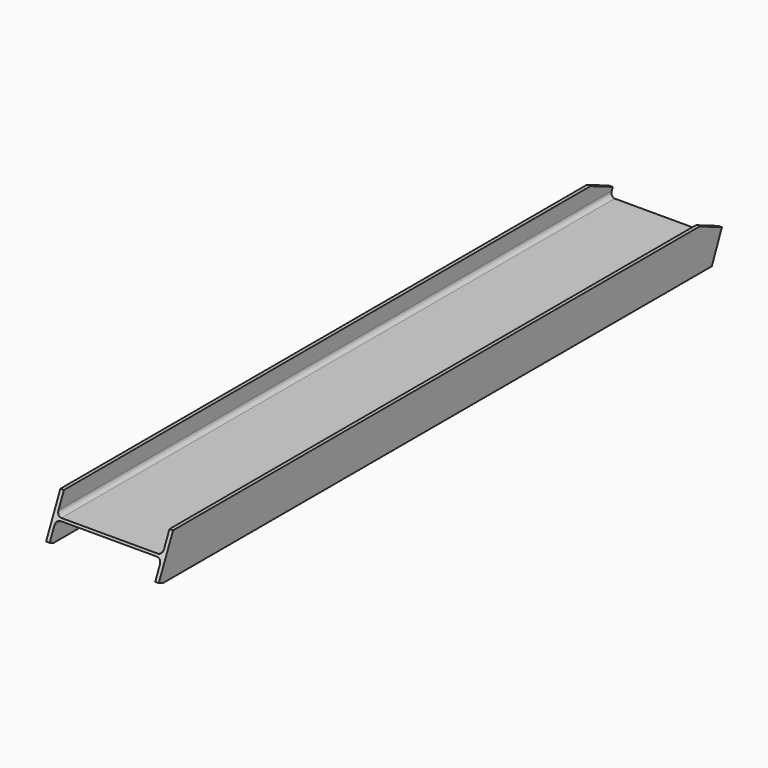
from build123d import *

# Parameters (mm, degrees)
F1_DEPTH = 4000
F3_DEPTH = 600.001


with BuildPart() as f1:
    # F0 (on Front) → F1 (new body)
    with BuildSketch(Plane.XZ):
        with BuildLine():
            Line((257, 6), (0, 6))
            Line((0, 6), (-257, 6))
            ThreePointArc((-257, 6), (-273.970563, 13.029437), (-281, 30))
            Line((-281, 30), (-281, 110))
            Line((-281, 110), (-300, 110))
            Line((-300, 110), (-300, 0))
            Line((-300, 0), (-300, -110))
            Line((-300, -110), (-281, -110))
            Line((-281, -110), (-281, -30))
            ThreePointArc((-281, -30), (-273.970563, -13.029437), (-257, -6))
            Line((-257, -6), (0, -6))
            Line((0, -6), (257, -6))
            ThreePointArc((257, -6), (273.970563, -13.029437), (281, -30))
            Line((281, -30), (281, -110))
            Line((281, -110), (300, -110))
            Line((300, -110), (300, 0))
            Line((300, 0), (300, 110))
            Line((300, 110), (281, 110))
            Line((281, 110), (281, 30))
            ThreePointArc((281, 30), (273.970563, 13.029437), (257, 6))
        make_face()
    extrude(amount=F1_DEPTH)

    # F2 (on face) → F3 (cut, through all)
    with BuildSketch(Plane.YZ.offset(300)):
        Polygon((-4000, -110), (-3972, -110), (-4000, -99), align=None)
        Polygon((-4000, 110), (-4000, -99), (-3905, 110), align=None)
        Polygon((-252, 46), (-319, -110), (0, -110), (0, 110), (-401.014925, 110), align=None)
    extrude(amount=-F3_DEPTH, mode=Mode.SUBTRACT)


solid = f1.part
